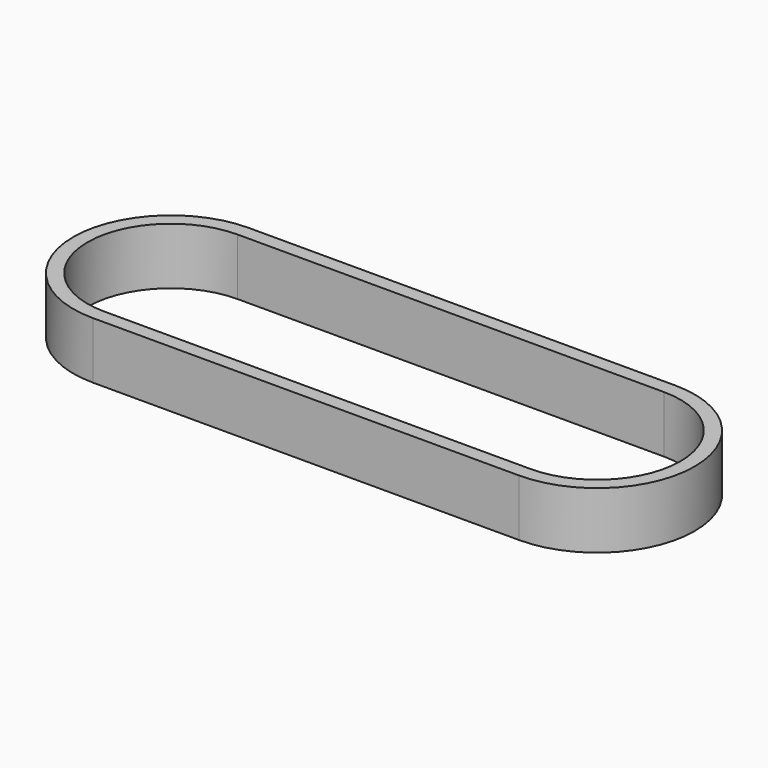
from build123d import *

# Parameters (mm, degrees)
F1_DEPTH = 8


with BuildPart() as f1:
    # F0 (on Top) → F1 (new body, symmetric)
    with BuildSketch(Plane.XY):
        with BuildLine():
            ThreePointArc((-120, 27.465), (-147.465, 0), (-120, -27.465))
            Line((-120, -27.465), (0, -27.465))
            ThreePointArc((0, -27.465), (27.465, 0), (0, 27.465))
            Line((0, 27.465), (-120, 27.465))
        make_face()
        with BuildLine():
            ThreePointArc((-120, -23.465), (-143.465, 0), (-120, 23.465))
            Line((-120, 23.465), (0, 23.465))
            ThreePointArc((0, 23.465), (23.465, 0), (0, -23.465))
            Line((0, -23.465), (-120, -23.465))
        make_face(mode=Mode.SUBTRACT)
    extrude(amount=F1_DEPTH, both=True)


solid = f1.part
